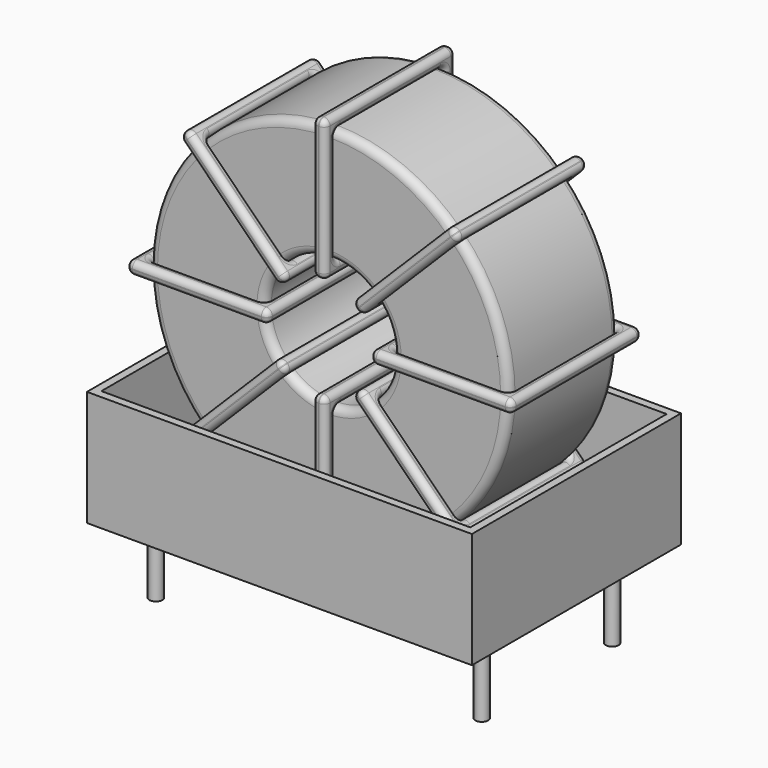
from build123d import *

# Parameters (mm, degrees)
SKETCH_R      = 11.2
SKETCH_R_2    = 4
PAD_DEPTH     = 4.28
FILLET_R      = 0.5
SKETCH003_W   = 8.8
SKETCH003_H   = 10.16
SKETCH003_W_2 = 7.2
SKETCH003_H_2 = 8.56
PAD002_DEPTH  = 0.4
FILLET001_R   = 0.376
SKETCH004_W   = 8.8
SKETCH004_H   = 10.16
SKETCH004_W_2 = 7.2
SKETCH004_H_2 = 8.56
PAD003_DEPTH  = 0.4
FILLET002_R   = 0.376
SKETCH005_W   = 8.8
SKETCH005_H   = 10.16
SKETCH005_W_2 = 7.2
SKETCH005_H_2 = 8.56
PAD004_DEPTH  = 0.4
FILLET003_R   = 0.376
SKETCH006_W   = 8.8
SKETCH006_H   = 10.16
SKETCH006_W_2 = 7.2
SKETCH006_H_2 = 8.56
PAD005_DEPTH  = 0.4
FILLET004_R   = 0.376
SKETCH007_W   = 24
SKETCH007_H   = 16.3
PAD006_DEPTH  = 0.5
SKETCH008_W   = 24
SKETCH008_H   = 16.3
SKETCH008_W_2 = 23
SKETCH008_H_2 = 15.3
PAD007_DEPTH  = 7.2
SKETCH001_R   = 0.4
PAD001_DEPTH  = 5


with BuildPart() as fillet_body:
    # Sketch → Pad (new body, symmetric)
    with BuildSketch(Plane(origin=(10.16, -5.08, 0), x_dir=(1, 0, 0), z_dir=(0, -1, 0))):
        with Locations((0, 13.3)):
            Circle(SKETCH_R)
        with Locations((0, 13.3)):
            Circle(SKETCH_R_2, mode=Mode.SUBTRACT)
    extrude(amount=PAD_DEPTH, both=True)

    # Fillet
    fillet_edges = [fillet_body.edges().sort_by_distance(p)[0] for p in [
        (6.16, -9.36, 13.3),
        (-1.04, -9.36, 13.3),
        (-1.04, -0.8, 13.3),
    ]]
    fillet(fillet_edges, radius=FILLET_R)


with BuildPart() as fillet001:
    # Sketch003 → Pad002 (new body, symmetric)
    with BuildSketch(Plane(origin=(10.16, 0, 13.3), x_dir=(1, 0, 0), z_dir=(0, 0, -1))):
        with Locations((-7.6, 5.08)):
            Rectangle(SKETCH003_W, SKETCH003_H)
        with Locations((-7.6, 5.08)):
            Rectangle(SKETCH003_W_2, SKETCH003_H_2, mode=Mode.SUBTRACT)
        with Locations((7.6, 5.08)):
            Rectangle(SKETCH003_W, SKETCH003_H)
        with Locations((7.6, 5.08)):
            Rectangle(SKETCH003_W_2, SKETCH003_H_2, mode=Mode.SUBTRACT)
    extrude(amount=PAD002_DEPTH, both=True)

    # Fillet001
    fillet001_edges = [fillet001.edges().sort_by_distance(p)[0] for p in [
        (6.16, -9.36, 13.3),
        (6.16, -0.8, 13.3),
        (6.16, -5.08, 13.7),
        (6.16, -5.08, 12.9),
        (-1.84, -10.16, 13.3),
        (6.96, -10.16, 13.3),
        (2.56, -10.16, 13.7),
        (2.56, -10.16, 12.9),
        (6.96, 0, 13.3),
        (6.96, -5.08, 13.7),
        (6.96, -5.08, 12.9),
        (14.16, -9.36, 13.3),
        (21.36, -9.36, 13.3),
        (17.76, -9.36, 13.7),
        (17.76, -9.36, 12.9),
        (21.36, -0.8, 13.3),
        (21.36, -5.08, 13.7),
        (21.36, -5.08, 12.9),
        (13.36, -10.16, 13.3),
        (22.16, -10.16, 13.3),
        (17.76, -10.16, 13.7),
        (17.76, -10.16, 12.9),
        (22.16, 0, 13.3),
        (22.16, -5.08, 13.7),
        (22.16, -5.08, 12.9),
        (-1.04, -9.36, 13.3),
        (2.56, -9.36, 13.7),
        (2.56, -9.36, 12.9),
        (14.16, -0.8, 13.3),
        (14.16, -5.08, 13.7),
        (14.16, -5.08, 12.9),
        (17.76, -0.8, 13.7),
        (17.76, -0.8, 12.9),
        (13.36, 0, 13.3),
        (17.76, 0, 13.7),
        (17.76, 0, 12.9),
        (13.36, -5.08, 13.7),
        (13.36, -5.08, 12.9),
        (-1.84, 0, 13.3),
        (2.56, 0, 13.7),
        (2.56, 0, 12.9),
        (-1.84, -5.08, 13.7),
        (-1.84, -5.08, 12.9),
        (-1.04, -0.8, 13.3),
        (-1.04, -5.08, 13.7),
        (-1.04, -5.08, 12.9),
        (2.56, -0.8, 13.7),
        (2.56, -0.8, 12.9),
    ]]
    fillet(fillet001_edges, radius=FILLET001_R)


with BuildPart() as fillet002:
    # Sketch004 → Pad003 (new body, symmetric)
    with BuildSketch(Plane(origin=(10.16, 0, 13.3), x_dir=(0.707108, 0, 0.707106), z_dir=(0.707106, 0, -0.707108))):
        with Locations((-7.6, 5.08)):
            Rectangle(SKETCH004_W, SKETCH004_H)
        with Locations((-7.6, 5.08)):
            Rectangle(SKETCH004_W_2, SKETCH004_H_2, mode=Mode.SUBTRACT)
        with Locations((7.6, 5.08)):
            Rectangle(SKETCH004_W, SKETCH004_H)
        with Locations((7.6, 5.08)):
            Rectangle(SKETCH004_W_2, SKETCH004_H_2, mode=Mode.SUBTRACT)
    extrude(amount=PAD003_DEPTH, both=True)

    # Fillet002
    fillet002_edges = [fillet002.edges().sort_by_distance(p)[0] for p in [
        (7.33157, -9.36, 10.471576),
        (7.33157, -0.8, 10.471576),
        (7.048727, -5.08, 10.754419),
        (7.614412, -5.08, 10.188733),
        (1.674709, -10.16, 4.814728),
        (7.897256, -10.16, 11.037261),
        (4.50314, -10.16, 8.208838),
        (5.068825, -10.16, 7.643152),
        (7.897256, 0, 11.037261),
        (7.614413, -5.08, 11.320104),
        (8.180098, -5.08, 10.754418),
        (12.98843, -0.8, 16.128424),
        (12.98843, -9.36, 16.128424),
        (12.705588, -5.08, 16.411267),
        (13.271273, -5.08, 15.845581),
        (18.079605, -0.8, 21.219587),
        (15.251175, -0.8, 18.956848),
        (15.81686, -0.8, 18.391162),
        (12.422744, -10.16, 15.562739),
        (18.645291, -10.16, 21.785272),
        (15.251175, -10.16, 18.956848),
        (15.81686, -10.16, 18.391162),
        (18.645291, 0, 21.785272),
        (18.362449, -5.08, 22.068115),
        (18.928134, -5.08, 21.502429),
        (2.240395, -9.36, 5.380413),
        (4.50314, -9.36, 8.208838),
        (5.068825, -9.36, 7.643152),
        (18.079605, -9.36, 21.219587),
        (15.251175, -9.36, 18.956848),
        (15.81686, -9.36, 18.391162),
        (17.796763, -5.08, 21.50243),
        (18.362447, -5.08, 20.936744),
        (12.422744, 0, 15.562739),
        (15.251175, 0, 18.956848),
        (15.81686, 0, 18.391162),
        (12.139902, -5.08, 15.845582),
        (12.705587, -5.08, 15.279896),
        (1.674709, 0, 4.814728),
        (4.50314, 0, 8.208838),
        (5.068825, 0, 7.643152),
        (1.391866, -5.08, 5.097571),
        (1.957551, -5.08, 4.531885),
        (2.240395, -0.8, 5.380413),
        (1.957553, -5.08, 5.663256),
        (2.523237, -5.08, 5.09757),
        (4.50314, -0.8, 8.208838),
        (5.068825, -0.8, 7.643152),
    ]]
    fillet(fillet002_edges, radius=FILLET002_R)


with BuildPart() as fillet003:
    # Sketch005 → Pad004 (new body, symmetric)
    with BuildSketch(Plane(origin=(10.16, 0, 13.3), x_dir=(0.707108, 0, -0.707106), z_dir=(-0.707106, 0, -0.707108))):
        with Locations((-7.6, 5.08)):
            Rectangle(SKETCH005_W, SKETCH005_H)
        with Locations((-7.6, 5.08)):
            Rectangle(SKETCH005_W_2, SKETCH005_H_2, mode=Mode.SUBTRACT)
        with Locations((7.6, 5.08)):
            Rectangle(SKETCH005_W, SKETCH005_H)
        with Locations((7.6, 5.08)):
            Rectangle(SKETCH005_W_2, SKETCH005_H_2, mode=Mode.SUBTRACT)
    extrude(amount=PAD004_DEPTH, both=True)

    # Fillet003
    fillet003_edges = [fillet003.edges().sort_by_distance(p)[0] for p in [
        (18.079605, -9.36, 5.380413),
        (18.079605, -0.8, 5.380413),
        (18.362447, -5.08, 5.663256),
        (17.796763, -5.08, 5.09757),
        (18.645291, 0, 4.814728),
        (12.422744, 0, 11.037261),
        (15.81686, 0, 8.208838),
        (15.251175, 0, 7.643152),
        (12.422744, -10.16, 11.037261),
        (12.705587, -5.08, 11.320104),
        (12.139902, -5.08, 10.754418),
        (2.240395, -9.36, 21.219587),
        (7.33157, -9.36, 16.128424),
        (5.068825, -9.36, 18.956848),
        (4.50314, -9.36, 18.391162),
        (7.33157, -0.8, 16.128424),
        (7.614412, -5.08, 16.411267),
        (7.048727, -5.08, 15.845581),
        (7.897256, -10.16, 15.562739),
        (7.897256, 0, 15.562739),
        (8.180098, -5.08, 15.845582),
        (7.614413, -5.08, 15.279896),
        (1.674709, -10.16, 21.785272),
        (5.068825, -10.16, 18.956848),
        (4.50314, -10.16, 18.391162),
        (12.98843, -9.36, 10.471576),
        (15.81686, -9.36, 8.208838),
        (15.251175, -9.36, 7.643152),
        (2.240395, -0.8, 21.219587),
        (2.523237, -5.08, 21.50243),
        (1.957553, -5.08, 20.936744),
        (5.068825, -0.8, 18.956848),
        (4.50314, -0.8, 18.391162),
        (1.674709, 0, 21.785272),
        (1.957551, -5.08, 22.068115),
        (1.391866, -5.08, 21.502429),
        (5.068825, 0, 18.956848),
        (4.50314, 0, 18.391162),
        (18.645291, -10.16, 4.814728),
        (15.81686, -10.16, 8.208838),
        (15.251175, -10.16, 7.643152),
        (18.928134, -5.08, 5.097571),
        (18.362449, -5.08, 4.531885),
        (12.98843, -0.8, 10.471576),
        (13.271273, -5.08, 10.754419),
        (12.705588, -5.08, 10.188733),
        (15.81686, -0.8, 8.208838),
        (15.251175, -0.8, 7.643152),
    ]]
    fillet(fillet003_edges, radius=FILLET003_R)


with BuildPart() as fillet004:
    # Sketch006 → Pad005 (new body, symmetric)
    with BuildSketch(Plane(origin=(10.16, 0, 13.3), x_dir=(0, 0, 1), z_dir=(1, 0, 0))):
        with Locations((-7.6, 5.08)):
            Rectangle(SKETCH006_W, SKETCH006_H)
        with Locations((-7.6, 5.08)):
            Rectangle(SKETCH006_W_2, SKETCH006_H_2, mode=Mode.SUBTRACT)
        with Locations((7.6, 5.08)):
            Rectangle(SKETCH006_W, SKETCH006_H)
        with Locations((7.6, 5.08)):
            Rectangle(SKETCH006_W_2, SKETCH006_H_2, mode=Mode.SUBTRACT)
    extrude(amount=PAD005_DEPTH, both=True)

    # Fillet004
    fillet004_edges = [fillet004.edges().sort_by_distance(p)[0] for p in [
        (10.16, -9.36, 9.3),
        (10.16, -0.8, 9.3),
        (9.76, -5.08, 9.3),
        (10.56, -5.08, 9.3),
        (10.16, -10.16, 1.3),
        (10.16, -10.16, 10.1),
        (9.76, -10.16, 5.7),
        (10.56, -10.16, 5.7),
        (10.16, 0, 10.1),
        (9.76, -5.08, 10.1),
        (10.56, -5.08, 10.1),
        (10.16, -9.36, 17.3),
        (10.16, -9.36, 24.5),
        (9.76, -9.36, 20.9),
        (10.56, -9.36, 20.9),
        (10.16, -0.8, 24.5),
        (9.76, -5.08, 24.5),
        (10.56, -5.08, 24.5),
        (10.16, -10.16, 16.5),
        (10.16, -10.16, 25.3),
        (9.76, -10.16, 20.9),
        (10.56, -10.16, 20.9),
        (10.16, 0, 25.3),
        (9.76, -5.08, 25.3),
        (10.56, -5.08, 25.3),
        (10.16, -9.36, 2.1),
        (9.76, -9.36, 5.7),
        (10.56, -9.36, 5.7),
        (10.16, -0.8, 17.3),
        (9.76, -5.08, 17.3),
        (10.56, -5.08, 17.3),
        (9.76, -0.8, 20.9),
        (10.56, -0.8, 20.9),
        (10.16, 0, 16.5),
        (9.76, 0, 20.9),
        (10.56, 0, 20.9),
        (9.76, -5.08, 16.5),
        (10.56, -5.08, 16.5),
        (10.16, 0, 1.3),
        (9.76, 0, 5.7),
        (10.56, 0, 5.7),
        (9.76, -5.08, 1.3),
        (10.56, -5.08, 1.3),
        (10.16, -0.8, 2.1),
        (9.76, -5.08, 2.1),
        (10.56, -5.08, 2.1),
        (9.76, -0.8, 5.7),
        (10.56, -0.8, 5.7),
    ]]
    fillet(fillet004_edges, radius=FILLET004_R)


with BuildPart() as pad006:
    # Sketch007 → Pad006 (new body)
    with BuildSketch(Plane(origin=(10.16, 0, 0.5), x_dir=(1, 0, 0), z_dir=(0, 0, 1))):
        with Locations((0, -5.08)):
            Rectangle(SKETCH007_W, SKETCH007_H)
    extrude(amount=PAD006_DEPTH)


with BuildPart() as pad007:
    # Sketch008 → Pad007 (new body)
    with BuildSketch(Plane(origin=(10.16, 0, 0.5), x_dir=(1, 0, 0), z_dir=(0, 0, 1))):
        with Locations((0, -5.08)):
            Rectangle(SKETCH008_W, SKETCH008_H)
        with Locations((0, -5.08)):
            Rectangle(SKETCH008_W_2, SKETCH008_H_2, mode=Mode.SUBTRACT)
    extrude(amount=PAD007_DEPTH)


with BuildPart() as obj1:
    # Sketch001 → Pad001 (new body)
    with BuildSketch(Plane.XY.offset(0.75)):
        Circle(SKETCH001_R)
        with Locations((20.32, -10.16)):
            Circle(SKETCH001_R)
        with Locations((0, -10.16)):
            Circle(SKETCH001_R)
        with Locations((20.32, 0)):
            Circle(SKETCH001_R)
    extrude(amount=-PAD001_DEPTH)

    # obj1: union Fillet body, Fillet001, Fillet002, Fillet003, Fillet004, Pad006, Pad007
    add(fillet_body.part)
    add(fillet001.part)
    add(fillet002.part)
    add(fillet003.part)
    add(fillet004.part)
    add(pad006.part)
    add(pad007.part)


solid = obj1.part
